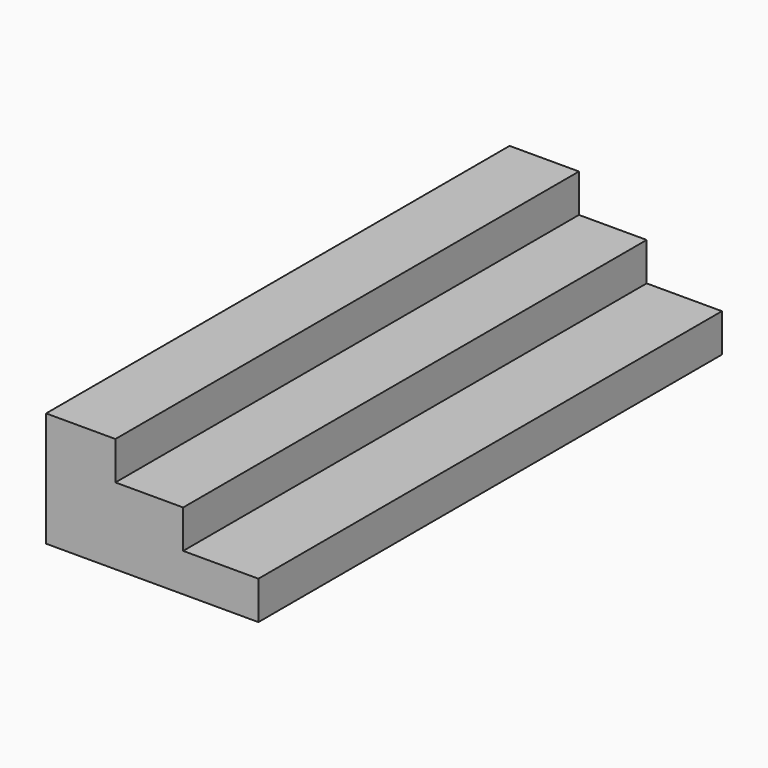
from build123d import *

# Parameters (mm, degrees)
F0_W     = 30.400316
F0_H     = 16.764
F1_DEPTH = 254


with BuildPart() as f1:
    # F0 (on Front) → F1 (new body)
    with BuildSketch(Plane.XZ):
        with Locations((15.200158, -8.382)):
            Rectangle(F0_W, F0_H)
        Polygon((30.400316, -16.764), (0, -16.764), (0, -33.528), (60.09366, -33.528), (60.09366, -16.764), align=None)
        Polygon((60.09366, -33.528), (0, -33.528), (0, -50.292), (93.086239, -50.292), (93.086239, -33.528), align=None)
    extrude(amount=F1_DEPTH)


solid = f1.part
